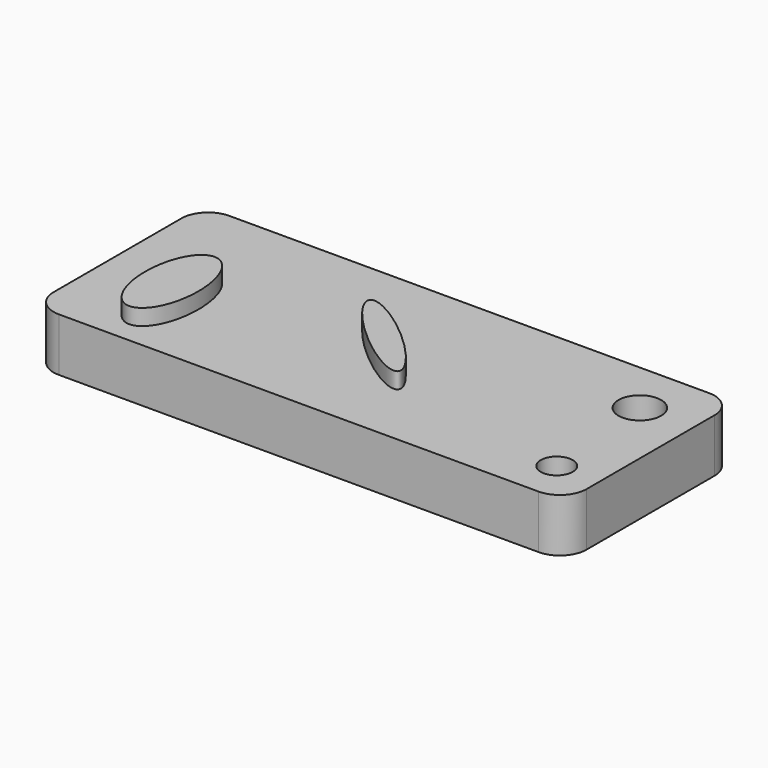
from build123d import *

# Parameters (mm, degrees)
F0_W     = 100
F0_H     = 40
F1_DEPTH = 10
F3_DEPTH = 3
F4_R     = 4
F4_R_2   = 3
F5_DEPTH = 10
F6_R     = 5


with BuildPart() as f1:
    # F0 (on Top) → F1 (new body)
    with BuildSketch(Plane.XY):
        Rectangle(F0_W, F0_H)
    extrude(amount=F1_DEPTH)

    # F2 (on face) → F3 (join)
    with BuildSketch(Plane.XY.offset(10)):
        with BuildLine():
            add(Edge.make_bspline(
                [(-35, 4), (-43.660254, 4), (-39.330127, -11), (-35, -26), (-30.669873, -11), (-26.339746, 4), (-35, 4)],
                knots=[0, 0, 0, 2.094395, 2.094395, 4.18879, 4.18879, 6.283185, 6.283185, 6.283185], degree=2, weights=[1, 0.5, 1, 0.5, 1, 0.5, 1]))
        make_face()
        with BuildLine():
            add(Edge.make_bspline(
                [(-8.672845, 7.551938), (-11.516397, 4.286327), (2.914646, -5.408774), (17.345689, -15.103876), (5.758198, -2.143164), (-5.829292, 10.817548), (-8.672845, 7.551938)],
                knots=[0, 0, 0, 2.094395, 2.094395, 4.18879, 4.18879, 6.283185, 6.283185, 6.283185], degree=2, weights=[1, 0.5, 1, 0.5, 1, 0.5, 1]))
        make_face()
    extrude(amount=F3_DEPTH)

    # F4 (on face) → F5 (cut)
    with BuildSketch(Plane.XY.offset(10)):
        with Locations((40, 10)):
            Circle(F4_R)
        with Locations((42, -12)):
            Circle(F4_R_2)
    extrude(amount=-F5_DEPTH, mode=Mode.SUBTRACT)

    # F6
    f6_edges = [f1.edges().sort_by_distance(p)[0] for p in [
        (-50, -20, 5),
        (-50, 20, 5),
        (50, 20, 5),
        (50, -20, 5),
    ]]
    fillet(f6_edges, radius=F6_R)


solid = f1.part
